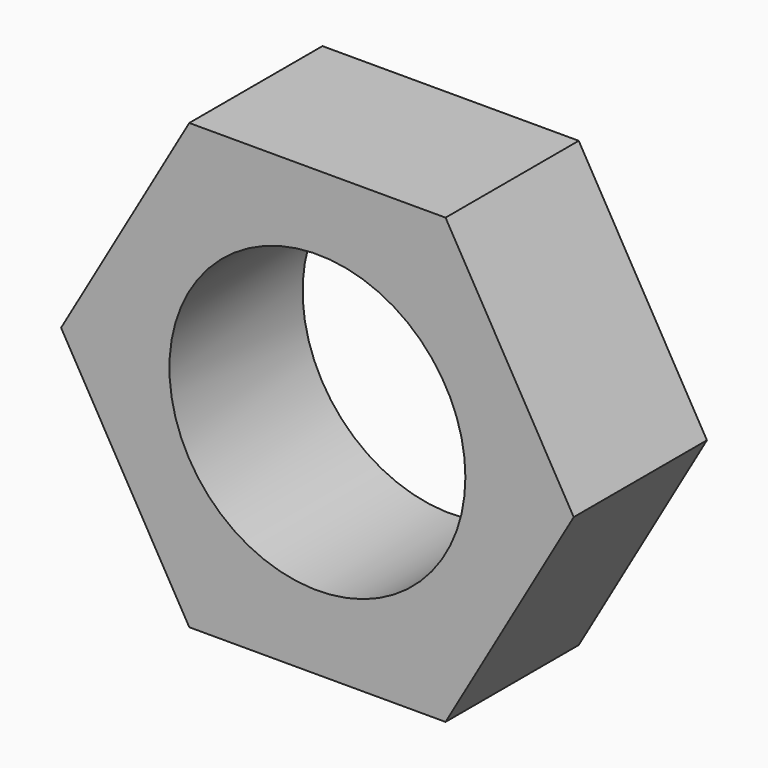
from build123d import *

# Parameters (mm, degrees)
F1_DEPTH = 9
F2_R     = 8
F3_DEPTH = 9.001


with BuildPart() as f1:
    # F0 (on Front) → F1 (new body)
    with BuildSketch(Plane.XZ):
        Polygon((-13.856203, 12), (-6.928, 0), (6.928, 0), (13.856203, 12), (6.928, 24), (-6.928, 24), align=None)
    extrude(amount=F1_DEPTH)

    # F2 (on face) → F3 (cut, through all)
    with BuildSketch(Plane.XZ.offset(9)):
        with Locations((0, 12)):
            Circle(F2_R)
    extrude(amount=-F3_DEPTH, mode=Mode.SUBTRACT)


solid = f1.part
